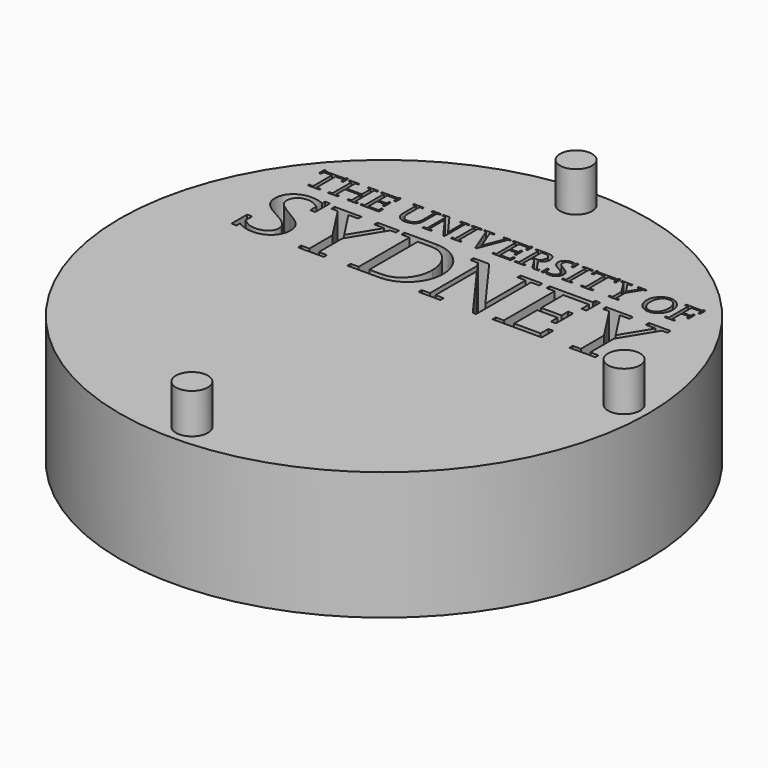
from build123d import *

# Parameters (mm, degrees)
F0_R     = 16.5
F1_DEPTH = 8
F2_R     = 1.05
F3_DEPTH = 2.5
F4_R     = 1
F5_DEPTH = 2.5
F7_DEPTH = 5


with BuildPart() as f1:
    # F0 (on Top) → F1 (new body)
    with BuildSketch(Plane.XY):
        Circle(F0_R)
    extrude(amount=F1_DEPTH)

    # F2 (on face) → F3 (cut)
    with BuildSketch(Plane(origin=(0, 0, 0), x_dir=(1, 0, 0), z_dir=(0, 0, -1))):
        with Locations((0, 15.05)):
            Circle(F2_R)
        with Locations((15, 0.05)):
            Circle(F2_R)
        with Locations((0, -14.95)):
            Circle(F2_R)
    extrude(amount=-F3_DEPTH, mode=Mode.SUBTRACT)

    # F4 (on face) → F5 (join)
    with BuildSketch(Plane.XY.offset(8)):
        with Locations((0, 15)):
            Circle(F4_R)
        with Locations((15, 0)):
            Circle(F4_R)
        with Locations((0, -15)):
            Circle(F4_R)
    extrude(amount=F5_DEPTH)

    # F6 (on face) → F7 (cut)
    with BuildSketch(Plane.XY.offset(8)):
        Polygon((-11.5345874332, 8.4620058254), (-10.7958996504, 8.4620058254), (-10.7958996504, 8.5567052437), (-11.0522021714, 8.5567052437), (-11.0522021714, 10.0261622572), (-10.5395971294, 10.0261622572), (-10.5395971294, 9.8210879198), (-10.4166171682, 9.8210879198), (-10.4166171682, 10.2263885016), (-10.5395971294, 10.2263885016), (-10.5395971294, 10.1543135177), (-11.7907283511, 10.1543135177), (-11.7907283511, 10.2263885016), (-11.9138699154, 10.2263885016), (-11.9138699154, 9.8210879198), (-11.7907283511, 9.8210879198), (-11.7907283511, 10.0261622572), (-11.2782849122, 10.0261622572), (-11.2782849122, 8.5567052437), (-11.5345874332, 8.5567052437), align=None)
        Polygon((-9.075149812, 8.4620058254), (-8.4652597021, 8.4620058254), (-8.4652597021, 8.5567052437), (-8.6603146472, 8.5567052437), (-8.6603146472, 10.0596140995), (-8.4652597021, 10.0596140995), (-8.4652597021, 10.1543135177), (-9.075149812, 10.1543135177), (-9.075149812, 10.0596140995), (-8.8831653259, 10.0596140995), (-8.8831653259, 9.3773257996), (-9.8447037874, 9.3773257996), (-9.8447037874, 10.0596140995), (-9.6520728889, 10.0596140995), (-9.6520728889, 10.1543135177), (-10.2624478081, 10.1543135177), (-10.2624478081, 10.0596140995), (-10.0706249251, 10.0596140995), (-10.0706249251, 8.5567052437), (-10.2624478081, 8.5567052437), (-10.2624478081, 8.4620058254), (-9.6520728889, 8.4620058254), (-9.6520728889, 8.5567052437), (-9.8447037874, 8.5567052437), (-9.8447037874, 9.2624259935), (-8.8831653259, 9.2624259935), (-8.8831653259, 8.5567052437), (-9.075149812, 8.5567052437), align=None)
        Polygon((-8.2506507816, 8.4620058254), (-7.0835531733, 8.4620058254), (-7.0835531733, 8.8028267692), (-7.2015234384, 8.8028267692), (-7.2015234384, 8.5773904408), (-7.8320987454, 8.5773904408), (-7.8320987454, 9.2642036276), (-7.3479358495, 9.2642036276), (-7.3479358495, 9.0673710484), (-7.2299655845, 9.0697886309), (-7.2299655845, 9.574798327), (-7.3479358495, 9.5723807446), (-7.3479358495, 9.3797498461), (-7.8320987454, 9.3797498461), (-7.8320987454, 10.0363432527), (-7.2249558883, 10.0363432527), (-7.2249558883, 9.8185022702), (-7.1094096698, 9.8185022702), (-7.1094096698, 10.2263885016), (-7.2273799348, 10.2263885016), (-7.2273799348, 10.1543135177), (-8.2506507816, 10.1543135177), (-8.2506507816, 10.0596140995), (-8.0581814862, 10.0596140995), (-8.0581814862, 8.5567052437), (-8.2506507816, 8.5567052437), align=None)
        with BuildLine():
            Line((-4.7427322296, 10.0596140995), (-4.5509093466, 10.0596140995))
            Line((-4.5509093466, 10.0596140995), (-4.5509093466, 10.1543135177))
            Line((-4.5509093466, 10.1543135177), (-5.0659384351, 10.1543135177))
            Line((-5.0659384351, 10.1543135177), (-5.0659384351, 10.0596140995))
            Line((-5.0659384351, 10.0596140995), (-4.8741155521, 10.0596140995))
            Line((-4.8741155521, 10.0596140995), (-4.8741155521, 9.0925811325))
            add(Edge.make_bspline(
                [(-5.3639345567, 8.5773904408), (-5.0709481313, 8.5773904408), (-4.8741155521, 8.785212031), (-4.8741155521, 9.0925811325)],
                knots=[0, 0, 0, 0, 1, 1, 1, 1], degree=3))
            add(Edge.make_bspline(
                [(-5.8304827144, 9.0899954828), (-5.8304827144, 8.7800407317), (-5.6480328114, 8.5773904408), (-5.3639345567, 8.5773904408)],
                knots=[0, 0, 0, 0, 1, 1, 1, 1], degree=3))
            Line((-5.8304827144, 9.0899954828), (-5.8304827144, 10.0596140995))
            Line((-5.8304827144, 10.0596140995), (-5.6378518159, 10.0596140995))
            Line((-5.6378518159, 10.0596140995), (-5.6378518159, 10.1543135177))
            Line((-5.6378518159, 10.1543135177), (-6.2483883382, 10.1543135177))
            Line((-6.2483883382, 10.1543135177), (-6.2483883382, 10.0596140995))
            Line((-6.2483883382, 10.0596140995), (-6.0557574397, 10.0596140995))
            Line((-6.0557574397, 10.0596140995), (-6.0557574397, 9.0104867563))
            add(Edge.make_bspline(
                [(-5.409991441, 8.4285539831), (-5.7818401805, 8.4285539831), (-6.0557574397, 8.6746755087), (-6.0557574397, 9.0104867563)],
                knots=[0, 0, 0, 0, 1, 1, 1, 1], degree=3))
            add(Edge.make_bspline(
                [(-5.0533333931, 8.5156580555), (-5.1606378534, 8.4594201758), (-5.2844258301, 8.4285539831), (-5.409991441, 8.4285539831)],
                knots=[0, 0, 0, 0, 1, 1, 1, 1], degree=3))
            add(Edge.make_bspline(
                [(-4.7427322296, 9.0825617401), (-4.7427322296, 8.8084828778), (-4.8406637099, 8.631204274), (-5.0533333931, 8.5156580555)],
                knots=[0, 0, 0, 0, 1, 1, 1, 1], degree=3))
            Line((-4.7427322296, 9.0825617401), (-4.7427322296, 10.0596140995))
        make_face()
        Polygon((-3.0491317125, 8.4335636793), (-2.9689765735, 8.4335636793), (-2.9689765735, 10.0596140995), (-2.7769920874, 10.0596140995), (-2.7769920874, 10.1543135177), (-3.292182779, 10.1543135177), (-3.292182779, 10.0596140995), (-3.097127834, 10.0596140995), (-3.097127834, 8.8671448041), (-4.0357186549, 10.1543135177), (-4.4075673944, 10.1543135177), (-4.4075673944, 10.0596140995), (-4.2307736, 10.0596140995), (-4.1614458689, 9.9618442223), (-4.1614458689, 8.5567052437), (-4.3565008139, 8.5567052437), (-4.3565008139, 8.4620058254), (-3.8387244726, 8.4620058254), (-3.8387244726, 8.5567052437), (-4.0332946084, 8.5567052437), (-4.0332946084, 9.7876360775), align=None)
        Polygon((-2.5901789006, 8.4620058254), (-1.9798039814, 8.4620058254), (-1.9798039814, 8.5567052437), (-2.1722732768, 8.5567052437), (-2.1722732768, 10.0596140995), (-1.9798039814, 10.0596140995), (-1.9798039814, 10.1543135177), (-2.5901789006, 10.1543135177), (-2.5901789006, 10.0596140995), (-2.3977096052, 10.0596140995), (-2.3977096052, 8.5567052437), (-2.5901789006, 8.5567052437), align=None)
        Polygon((-1.0315169743, 8.4183729877), (-0.9437664894, 8.4183729877), (-0.30317179, 10.0596140995), (-0.1750205295, 10.0596140995), (-0.1750205295, 10.1543135177), (-0.6131265412, 10.1543135177), (-0.6131265412, 10.0596140995), (-0.4439280925, 10.0596140995), (-0.9363327467, 8.8002411195), (-1.4337470971, 10.0596140995), (-1.1924736646, 10.0596140995), (-1.1924736646, 10.1543135177), (-1.8288666834, 10.1543135177), (-1.8288666834, 10.0596140995), (-1.677282973, 10.0596140995), align=None)
        Polygon((-0.0208511695, 8.4620058254), (1.1456000264, 8.4620058254), (1.1456000264, 8.8028267692), (1.0276297614, 8.8028267692), (1.0276297614, 8.5773904408), (0.3968928512, 8.5773904408), (0.3968928512, 9.2642036276), (0.8817021596, 9.2642036276), (0.8817021596, 9.0673710484), (0.9998340277, 9.0697886309), (0.9998340277, 9.574798327), (0.8817021596, 9.5723807446), (0.8817021596, 9.3797498461), (0.3968928512, 9.3797498461), (0.3968928512, 10.0363432527), (1.0048437239, 10.0363432527), (1.0048437239, 9.8185022702), (1.1197435299, 9.8185022702), (1.1197435299, 10.2263885016), (1.0024196773, 10.2263885016), (1.0024196773, 10.1543135177), (-0.0208511695, 10.1543135177), (-0.0208511695, 10.0596140995), (0.1709717135, 10.0596140995), (0.1709717135, 8.5567052437), (-0.0208511695, 8.5567052437), align=None)
        with BuildLine():
            Line((2.6556194188, 8.4620058254), (2.8734604013, 8.4620058254))
            Line((2.8734604013, 8.4620058254), (2.8734604013, 8.5591292902))
            Line((2.8734604013, 8.5591292902), (2.7735896838, 8.5591292902))
            add(Edge.make_bspline(
                [(2.6063304724, 8.6853413135), (2.6682244608, 8.5901570859), (2.7092716489, 8.5591292902), (2.7735896838, 8.5591292902)],
                knots=[0, 0, 0, 0, 1, 1, 1, 1], degree=3))
            Line((2.6063304724, 8.6853413135), (2.237713795, 9.2541842352))
            add(Edge.make_bspline(
                [(2.6221675765, 9.6979463555), (2.6221675765, 9.4492391803), (2.4839969236, 9.2902217272), (2.237713795, 9.2541842352)],
                knots=[0, 0, 0, 0, 1, 1, 1, 1], degree=3))
            add(Edge.make_bspline(
                [(2.571100996, 9.9258067304), (2.6045528383, 9.8569638086), (2.6221675765, 9.7800407317), (2.6221675765, 9.6979463555)],
                knots=[0, 0, 0, 0, 1, 1, 1, 1], degree=3))
            add(Edge.make_bspline(
                [(2.1045528383, 10.1543135177), (2.3532600135, 10.1543135177), (2.494016316, 10.0849857866), (2.571100996, 9.9258067304)],
                knots=[0, 0, 0, 0, 1, 1, 1, 1], degree=3))
            Line((2.1045528383, 10.1543135177), (1.3912367426, 10.1543135177))
            Line((1.3912367426, 10.1543135177), (1.3912367426, 10.0596140995))
            Line((1.3912367426, 10.0596140995), (1.583706038, 10.0596140995))
            Line((1.583706038, 10.0596140995), (1.583706038, 8.5567052437))
            Line((1.583706038, 8.5567052437), (1.3912367426, 8.5567052437))
            Line((1.3912367426, 8.5567052437), (1.3912367426, 8.4620058254))
            Line((1.3912367426, 8.4620058254), (2.0016116618, 8.4620058254))
            Line((2.0016116618, 8.4620058254), (2.0016116618, 8.5567052437))
            Line((2.0016116618, 8.5567052437), (1.8091423664, 8.5567052437))
            Line((1.8091423664, 8.5567052437), (1.8091423664, 9.220732393))
            Line((1.8091423664, 9.220732393), (2.0092070076, 9.220732393))
            Line((2.0092070076, 9.220732393), (2.3910751395, 8.6134279327))
            add(Edge.make_bspline(
                [(2.6556194188, 8.4620058254), (2.5041973115, 8.4620058254), (2.4764015778, 8.4776813264), (2.3910751395, 8.6134279327)],
                knots=[0, 0, 0, 0, 1, 1, 1, 1], degree=3))
        make_face()
        with BuildLine():
            Line((2.0552638919, 9.338702658), (1.8091423664, 9.338702658))
            Line((1.8091423664, 9.338702658), (1.8091423664, 10.0363432527))
            Line((1.8091423664, 10.0363432527), (2.0502541958, 10.0363432527))
            add(Edge.make_bspline(
                [(2.3860654433, 9.6929366593), (2.3860654433, 9.9132016884), (2.2655095287, 10.0363432527), (2.0502541958, 10.0363432527)],
                knots=[0, 0, 0, 0, 1, 1, 1, 1], degree=3))
            add(Edge.make_bspline(
                [(2.0552638919, 9.338702658), (2.250318837, 9.338702658), (2.3860654433, 9.4826910226), (2.3860654433, 9.6929366593)],
                knots=[0, 0, 0, 0, 1, 1, 1, 1], degree=3))
        make_face(mode=Mode.SUBTRACT)
        with BuildLine():
            Line((3.080473976, 8.4392197879), (3.2010298906, 8.4392197879))
            Line((3.2010298906, 8.4392197879), (3.2010298906, 8.5439385985))
            add(Edge.make_bspline(
                [(3.5961494769, 8.4285539831), (3.4345463742, 8.4285539831), (3.3291811512, 8.4620058254), (3.2010298906, 8.5439385985)],
                knots=[0, 0, 0, 0, 1, 1, 1, 1], degree=3))
            add(Edge.make_bspline(
                [(4.1063304724, 8.9005966464), (4.1063304724, 8.6336283206), (3.8859038402, 8.4285539831), (3.5961494769, 8.4285539831)],
                knots=[0, 0, 0, 0, 1, 1, 1, 1], degree=3))
            add(Edge.make_bspline(
                [(3.6934345448, 9.4081919922), (4.0140551007, 9.2233180426), (4.1063304724, 9.1108422831), (4.1063304724, 8.9005966464)],
                knots=[0, 0, 0, 0, 1, 1, 1, 1], degree=3))
            add(Edge.make_bspline(
                [(3.2987997678, 9.7976554699), (3.2987997678, 9.6670801629), (3.3732987982, 9.5925811325), (3.6934345448, 9.4081919922)],
                knots=[0, 0, 0, 0, 1, 1, 1, 1], degree=3))
            add(Edge.make_bspline(
                [(3.5854836722, 10.0621997491), (3.4119219398, 10.0621997491), (3.2987997678, 9.9568345261), (3.2987997678, 9.7976554699)],
                knots=[0, 0, 0, 0, 1, 1, 1, 1], degree=3))
            add(Edge.make_bspline(
                [(3.8834797937, 9.9492391803), (3.7527428835, 10.0363432527), (3.6884248486, 10.0621997491), (3.5854836722, 10.0621997491)],
                knots=[0, 0, 0, 0, 1, 1, 1, 1], degree=3))
            Line((3.8834797937, 9.9492391803), (3.8834797937, 9.7674356897))
            Line((3.8834797937, 9.7674356897), (4.0014500587, 9.7674356897))
            Line((4.0014500587, 9.7674356897), (4.0014500587, 10.2055417013))
            Line((4.0014500587, 10.2055417013), (3.8834797937, 10.2055417013))
            Line((3.8834797937, 10.2055417013), (3.8834797937, 10.1132663296))
            add(Edge.make_bspline(
                [(3.5778883263, 10.1853413135), (3.7060395868, 10.1853413135), (3.8013854175, 10.1619088636), (3.8834797937, 10.1132663296)],
                knots=[0, 0, 0, 0, 1, 1, 1, 1], degree=3))
            add(Edge.make_bspline(
                [(3.0728786301, 9.7415791932), (3.0728786301, 9.9952960646), (3.288133963, 10.1853413135), (3.5778883263, 10.1853413135)],
                knots=[0, 0, 0, 0, 1, 1, 1, 1], degree=3))
            add(Edge.make_bspline(
                [(3.506621358, 9.2339838474), (3.1834151524, 9.403182296), (3.0728786301, 9.5313335565), (3.0728786301, 9.7415791932)],
                knots=[0, 0, 0, 0, 1, 1, 1, 1], degree=3))
            add(Edge.make_bspline(
                [(3.8834797937, 8.8362786115), (3.8834797937, 8.9826910226), (3.7836090762, 9.0899954828), (3.506621358, 9.2339838474)],
                knots=[0, 0, 0, 0, 1, 1, 1, 1], degree=3))
            add(Edge.make_bspline(
                [(3.5400732003, 8.5673710484), (3.7445011253, 8.5673710484), (3.8834797937, 8.6746755087), (3.8834797937, 8.8362786115)],
                knots=[0, 0, 0, 0, 1, 1, 1, 1], degree=3))
            add(Edge.make_bspline(
                [(3.2010298906, 8.6981079586), (3.3576232972, 8.5925811325), (3.4269510283, 8.5673710484), (3.5400732003, 8.5673710484)],
                knots=[0, 0, 0, 0, 1, 1, 1, 1], degree=3))
            Line((3.2010298906, 8.6981079586), (3.2010298906, 8.9005966464))
            Line((3.2010298906, 8.9005966464), (3.080473976, 8.9005966464))
            Line((3.080473976, 8.9005966464), (3.080473976, 8.4392197879))
        make_face()
        Polygon((4.3417861932, 8.4620058254), (4.9521611124, 8.4620058254), (4.9521611124, 8.5567052437), (4.759691817, 8.5567052437), (4.759691817, 10.0596140995), (4.9521611124, 10.0596140995), (4.9521611124, 10.1543135177), (4.3417861932, 10.1543135177), (4.3417861932, 10.0596140995), (4.5342554886, 10.0596140995), (4.5342554886, 8.5567052437), (4.3417861932, 8.5567052437), align=None)
        Polygon((5.4982179967, 8.4620058254), (6.2367441764, 8.4620058254), (6.2367441764, 8.5567052437), (5.9797952429, 8.5567052437), (5.9797952429, 10.0261622572), (6.4930466974, 10.0261622572), (6.4930466974, 9.8210879198), (6.6161882617, 9.8210879198), (6.6161882617, 10.2263885016), (6.4930466974, 10.2263885016), (6.4930466974, 10.1543135177), (5.2419154757, 10.1543135177), (5.2419154757, 10.2263885016), (5.1187739113, 10.2263885016), (5.1187739113, 9.8210879198), (5.2419154757, 9.8210879198), (5.2419154757, 10.0261622572), (5.7545205177, 10.0261622572), (5.7545205177, 8.5567052437), (5.4982179967, 8.5567052437), align=None)
        Polygon((7.2461171563, 8.4620058254), (7.8566536786, 8.4620058254), (7.8566536786, 8.5567052437), (7.6620835429, 8.5567052437), (7.6620835429, 9.2567698849), (8.1538417846, 10.0596140995), (8.2878107568, 10.0596140995), (8.2878107568, 10.1543135177), (7.7745593024, 10.1543135177), (7.7745593024, 10.0596140995), (8.0080757859, 10.0596140995), (7.6003511576, 9.3873451919), (7.1590130839, 10.0596140995), (7.3926911705, 10.0596140995), (7.3926911705, 10.1543135177), (6.7595302139, 10.1543135177), (6.7595302139, 10.0596140995), (6.9078818622, 10.0596140995), (7.4387480548, 9.2415791932), (7.4387480548, 8.5567052437), (7.2461171563, 8.5567052437), align=None)
        with BuildLine():
            add(Edge.make_bspline(
                [(8.9481210348, 9.3052508157), (8.9481210348, 9.7876360775), (9.3230402332, 10.1853413135), (9.7763369365, 10.1853413135)],
                knots=[0, 0, 0, 0, 1, 1, 1, 1], degree=3))
            add(Edge.make_bspline(
                [(9.7763369365, 8.4285539831), (9.3254642798, 8.4285539831), (8.9481210348, 8.8286832656), (8.9481210348, 9.3052508157)],
                knots=[0, 0, 0, 0, 1, 1, 1, 1], degree=3))
            add(Edge.make_bspline(
                [(10.5969574925, 9.3084828778), (10.5969574925, 8.8312689153), (10.2225231033, 8.4285539831), (9.7763369365, 8.4285539831)],
                knots=[0, 0, 0, 0, 1, 1, 1, 1], degree=3))
            add(Edge.make_bspline(
                [(9.7763369365, 10.1853413135), (10.2225231033, 10.1853413135), (10.5969574925, 9.7850504279), (10.5969574925, 9.3084828778)],
                knots=[0, 0, 0, 0, 1, 1, 1, 1], degree=3))
        make_face()
        with BuildLine():
            add(Edge.make_bspline(
                [(9.2024843186, 9.3084828778), (9.2024843186, 8.8747401499), (9.4435961479, 8.5623613523), (9.7763369365, 8.5623613523)],
                knots=[0, 0, 0, 0, 1, 1, 1, 1], degree=3))
            add(Edge.make_bspline(
                [(9.7794073955, 10.0521803568), (9.4435961479, 10.0521803568), (9.2024843186, 9.7440032398), (9.2024843186, 9.3084828778)],
                knots=[0, 0, 0, 0, 1, 1, 1, 1], degree=3))
            add(Edge.make_bspline(
                [(10.343079018, 9.3084828778), (10.343079018, 9.7389935436), (10.1045528383, 10.0521803568), (9.7794073955, 10.0521803568)],
                knots=[0, 0, 0, 0, 1, 1, 1, 1], degree=3))
            add(Edge.make_bspline(
                [(9.7763369365, 8.5623613523), (10.1045528383, 8.5623613523), (10.343079018, 8.8773257996), (10.343079018, 9.3084828778)],
                knots=[0, 0, 0, 0, 1, 1, 1, 1], degree=3))
        make_face(mode=Mode.SUBTRACT)
        Polygon((10.7559749456, 8.4620058254), (11.3657034524, 8.4620058254), (11.3657034524, 8.5567052437), (11.1738805694, 8.5567052437), (11.1738805694, 9.2642036276), (11.6580434653, 9.2642036276), (11.6580434653, 9.0673710484), (11.7761753334, 9.0697886309), (11.7761753334, 9.574798327), (11.6580434653, 9.5723807446), (11.6580434653, 9.3797498461), (11.1738805694, 9.3797498461), (11.1738805694, 10.0363432527), (11.7811850296, 10.0363432527), (11.7811850296, 9.8185022702), (11.8967312481, 9.8185022702), (11.8967312481, 10.2263885016), (11.77859938, 10.2263885016), (11.77859938, 10.1543135177), (10.7559749456, 10.1543135177), (10.7559749456, 10.0596140995), (10.9479594317, 10.0596140995), (10.9479594317, 8.5567052437), (10.7559749456, 8.5567052437), align=None)
        with BuildLine():
            Line((-11.9119306782, 2.9838222443), (-11.5945421843, 2.9838222443))
            Line((-11.5945421843, 2.9838222443), (-11.5945421843, 3.2609715656))
            add(Edge.make_bspline(
                [(-10.5541414086, 2.9573193354), (-10.9796423783, 2.9573193354), (-11.2567916995, 3.0450698203), (-11.5945421843, 3.2609715656)],
                knots=[0, 0, 0, 0, 1, 1, 1, 1], degree=3))
            add(Edge.make_bspline(
                [(-9.2096035935, 4.200370402), (-9.2096035935, 3.4977201111), (-9.7904051449, 2.9573193354), (-10.5541414086, 2.9573193354)],
                knots=[0, 0, 0, 0, 1, 1, 1, 1], degree=3))
            add(Edge.make_bspline(
                [(-10.2971924752, 5.5386056961), (-9.4526546601, 5.0518571506), (-9.2096035935, 4.7545074415), (-9.2096035935, 4.200370402)],
                knots=[0, 0, 0, 0, 1, 1, 1, 1], degree=3))
            add(Edge.make_bspline(
                [(-11.3375932509, 6.5688254764), (-11.3375932509, 6.2241260581), (-11.1418918935, 6.0264854634), (-10.2971924752, 5.5386056961)],
                knots=[0, 0, 0, 0, 1, 1, 1, 1], degree=3))
            add(Edge.make_bspline(
                [(-10.5812907299, 7.2650116431), (-11.0408899542, 7.2650116431), (-11.3375932509, 6.988023925), (-11.3375932509, 6.5688254764)],
                knots=[0, 0, 0, 0, 1, 1, 1, 1], degree=3))
            add(Edge.make_bspline(
                [(-9.7973540783, 6.9678235371), (-10.1418918935, 7.1974615462), (-10.3104439296, 7.2650116431), (-10.5812907299, 7.2650116431)],
                knots=[0, 0, 0, 0, 1, 1, 1, 1], degree=3))
            Line((-9.7973540783, 6.9678235371), (-9.7973540783, 6.488023925))
            Line((-9.7973540783, 6.488023925), (-9.4861065024, 6.488023925))
            Line((-9.4861065024, 6.488023925), (-9.4861065024, 7.6431629036))
            Line((-9.4861065024, 7.6431629036), (-9.7973540783, 7.6431629036))
            Line((-9.7973540783, 7.6431629036), (-9.7973540783, 7.4001118371))
            add(Edge.make_bspline(
                [(-10.6014911178, 7.5895106735), (-10.2630942205, 7.5895106735), (-10.0137406329, 7.5282630976), (-9.7973540783, 7.4001118371)],
                knots=[0, 0, 0, 0, 1, 1, 1, 1], degree=3))
            add(Edge.make_bspline(
                [(-11.9327774785, 6.4198274156), (-11.9327774785, 7.0890258642), (-11.3647425722, 7.5895106735), (-10.6014911178, 7.5895106735)],
                knots=[0, 0, 0, 0, 1, 1, 1, 1], degree=3))
            add(Edge.make_bspline(
                [(-10.7902435418, 5.0790064718), (-11.6418918935, 5.5247078293), (-11.9327774785, 5.8631047265), (-11.9327774785, 6.4198274156)],
                knots=[0, 0, 0, 0, 1, 1, 1, 1], degree=3))
            add(Edge.make_bspline(
                [(-9.7973540783, 4.0311719534), (-9.7973540783, 4.4167569566), (-10.0604439296, 4.7002087989), (-10.7902435418, 5.0790064718)],
                knots=[0, 0, 0, 0, 1, 1, 1, 1], degree=3))
            add(Edge.make_bspline(
                [(-10.702493057, 3.3222191415), (-10.1620922813, 3.3222191415), (-9.7973540783, 3.6056709838), (-9.7973540783, 4.0311719534)],
                knots=[0, 0, 0, 0, 1, 1, 1, 1], degree=3))
            add(Edge.make_bspline(
                [(-11.5945421843, 3.6669185597), (-11.1822926691, 3.3897692385), (-10.9998427661, 3.3222191415), (-10.702493057, 3.3222191415)],
                knots=[0, 0, 0, 0, 1, 1, 1, 1], degree=3))
            Line((-11.5945421843, 3.6669185597), (-11.5945421843, 4.200370402))
            Line((-11.5945421843, 4.200370402), (-11.9119306782, 4.200370402))
            Line((-11.9119306782, 4.200370402), (-11.9119306782, 2.9838222443))
        make_face()
        Polygon((-7.8044646148, 3.0450698203), (-6.1958673298, 3.0450698203), (-6.1958673298, 3.2950698203), (-6.7097651966, 3.2950698203), (-6.7097651966, 5.1396076354), (-5.4119306782, 7.2580627097), (-5.0602823265, 7.2580627097), (-5.0602823265, 7.5080627097), (-6.4124154875, 7.5080627097), (-6.4124154875, 7.2580627097), (-5.7970308721, 7.2580627097), (-6.8713682994, 5.4843070536), (-8.0334562115, 7.2580627097), (-7.4187180085, 7.2580627097), (-7.4187180085, 7.5080627097), (-9.087754854, 7.5080627097), (-9.087754854, 7.2580627097), (-8.6963521391, 7.2580627097), (-7.2975156814, 5.0992068597), (-7.2975156814, 3.2950698203), (-7.8044646148, 3.2950698203), align=None)
        with BuildLine():
            Line((-4.7231782541, 3.2950698203), (-4.7231782541, 3.0450698203))
            Line((-4.7231782541, 3.0450698203), (-2.7365913117, 3.0450698203))
            add(Edge.make_bspline(
                [(-0.5202047571, 5.2816567627), (-0.5202047571, 4.0318183658), (-1.4930554358, 3.0450698203), (-2.7365913117, 3.0450698203)],
                knots=[0, 0, 0, 0, 1, 1, 1, 1], degree=3))
            add(Edge.make_bspline(
                [(-2.7296423783, 7.5080627097), (-1.5132558236, 7.5080627097), (-0.5202047571, 6.5082243128), (-0.5202047571, 5.2816567627)],
                knots=[0, 0, 0, 0, 1, 1, 1, 1], degree=3))
            Line((-2.7296423783, 7.5080627097), (-4.7231782541, 7.5080627097))
            Line((-4.7231782541, 7.5080627097), (-4.7231782541, 7.2580627097))
            Line((-4.7231782541, 7.2580627097), (-4.2162293207, 7.2580627097))
            Line((-4.2162293207, 7.2580627097), (-4.2162293207, 3.2950698203))
            Line((-4.2162293207, 3.2950698203), (-4.7231782541, 3.2950698203))
        make_face()
        with BuildLine():
            Line((-2.8104439296, 3.3828203051), (-3.6216915056, 3.3828203051))
            Line((-3.6216915056, 3.3828203051), (-3.6216915056, 7.1633632915))
            Line((-3.6216915056, 7.1633632915), (-2.7971924752, 7.1633632915))
            add(Edge.make_bspline(
                [(-1.1894032057, 5.2747078293), (-1.1894032057, 6.3188254764), (-1.905304951, 7.1633632915), (-2.7971924752, 7.1633632915)],
                knots=[0, 0, 0, 0, 1, 1, 1, 1], degree=3))
            add(Edge.make_bspline(
                [(-2.8104439296, 3.3828203051), (-1.8851045631, 3.3828203051), (-1.1818078598, 4.200370402), (-1.1894032057, 5.2747078293)],
                knots=[0, 0, 0, 0, 1, 1, 1, 1], degree=3))
        make_face(mode=Mode.SUBTRACT)
        Polygon((3.1688708732, 2.9705707899), (3.3784700975, 2.9705707899), (3.3784700975, 7.2580627097), (3.8852574278, 7.2580627097), (3.8852574278, 7.5080627097), (2.5268217459, 7.5080627097), (2.5268217459, 7.2580627097), (3.0407196127, 7.2580627097), (3.0407196127, 4.1126199172), (0.5667377122, 7.5080627097), (-0.4122538844, 7.5080627097), (-0.4122538844, 7.2580627097), (0.0534862578, 7.2580627097), (0.2359361608, 7.0012753794), (0.2359361608, 3.2950698203), (-0.2771536905, 3.2950698203), (-0.2771536905, 3.0450698203), (1.0875845125, 3.0450698203), (1.0875845125, 3.2950698203), (0.5743330581, 3.2950698203), (0.5743330581, 6.5416761551), align=None)
        Polygon((4.3442102397, 3.0450698203), (7.4191940794, 3.0450698203), (7.4191940794, 3.9434214686), (7.1079465034, 3.9434214686), (7.1079465034, 3.3487220504), (5.4458585914, 3.3487220504), (5.4458585914, 5.1598080232), (6.7228463095, 5.1598080232), (6.7228463095, 4.6396076354), (7.0334474731, 4.6465501047), (7.0334474731, 5.9784828778), (6.7228463095, 5.9721868209), (6.7228463095, 5.4641066658), (5.4458585914, 5.4641066658), (5.4458585914, 7.1974615462), (7.0473453399, 7.1974615462), (7.0473453399, 6.6231241189), (7.3516439824, 6.6231241189), (7.3516439824, 7.6974615462), (7.0403964065, 7.6974615462), (7.0403964065, 7.5080627097), (4.3442102397, 7.5080627097), (4.3442102397, 7.2580627097), (4.8511591731, 7.2580627097), (4.8511591731, 3.2950698203), (4.3442102397, 3.2950698203), align=None)
        Polygon((9.1551346095, 3.0450698203), (10.762923879, 3.0450698203), (10.762923879, 3.2950698203), (10.2496724246, 3.2950698203), (10.2496724246, 5.1396076354), (11.547506943, 7.2580627097), (11.8985088822, 7.2580627097), (11.8985088822, 7.5080627097), (10.5470221337, 7.5080627097), (10.5470221337, 7.2580627097), (11.1619219398, 7.2580627097), (10.0874229094, 5.4843070536), (8.9253349973, 7.2580627097), (9.5402348034, 7.2580627097), (9.5402348034, 7.5080627097), (7.8710363548, 7.5080627097), (7.8710363548, 7.2580627097), (8.2630854821, 7.2580627097), (9.6620835429, 5.0992068597), (9.6620835429, 3.2950698203), (9.1551346095, 3.2950698203), align=None)
    extrude(amount=-F7_DEPTH, mode=Mode.SUBTRACT)


solid = f1.part
